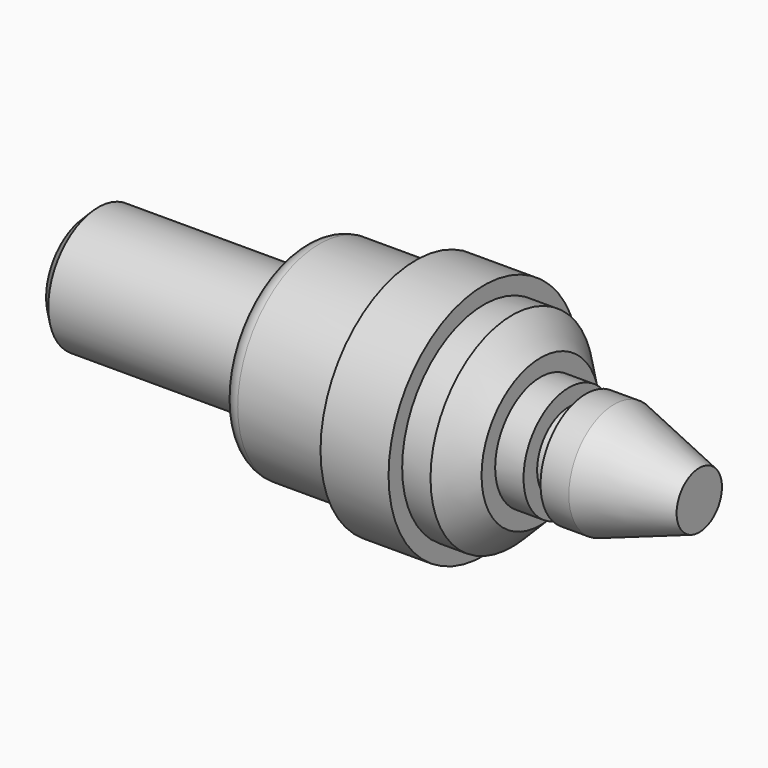
from build123d import *

# Parameters (mm, degrees)
F2_SIZE = 2
F3_R    = 3
F4_SIZE = 5


with BuildPart() as f1:
    # F0 (on Top) → F1 (revolve)
    with BuildSketch(Plane.XY):
        Polygon((-103.2470944208, 52.4156599623), (-211.2470944208, 52.4156599623), (-211.2470944208, 41.4156599623), (-173.2470944208, 41.4156599623), (-173.2470944208, 34.4156599623), (-153.2470944208, 34.4156599623), (-153.2470944208, 31.4156599623), (-141.2470944208, 31.4156599623), (-141.2470944208, 34.4156599623), (-131.2470944208, 34.4156599623), (-131.2470944208, 42.4156599623), (-126.2470944208, 42.4156599623), (-126.2470944208, 45.4156599623), (-123.2470944208, 45.4156599623), (-123.2470944208, 42.4156599623), (-118.2470944208, 42.4156599623), (-103.2470944208, 47.4156599623), align=None)
    revolve(axis=Axis((-157.2470944208, 52.4156599623, 0), (1, 0, 0)))

    # F2
    f2_edges = [f1.edges().sort_by_distance(p)[0] for p in [
        (-211.247094, 63.41566, 0),
    ]]
    chamfer(f2_edges, length=F2_SIZE)

    # F3
    f3_edges = [f1.edges().sort_by_distance(p)[0] for p in [
        (-173.247094, 63.41566, 0),
        (-173.247094, 70.41566, 0),
    ]]
    fillet(f3_edges, radius=F3_R)

    # F4
    f4_edges = [f1.edges().sort_by_distance(p)[0] for p in [
        (-131.247094, 70.41566, 0),
    ]]
    chamfer(f4_edges, length=F4_SIZE)


solid = f1.part
